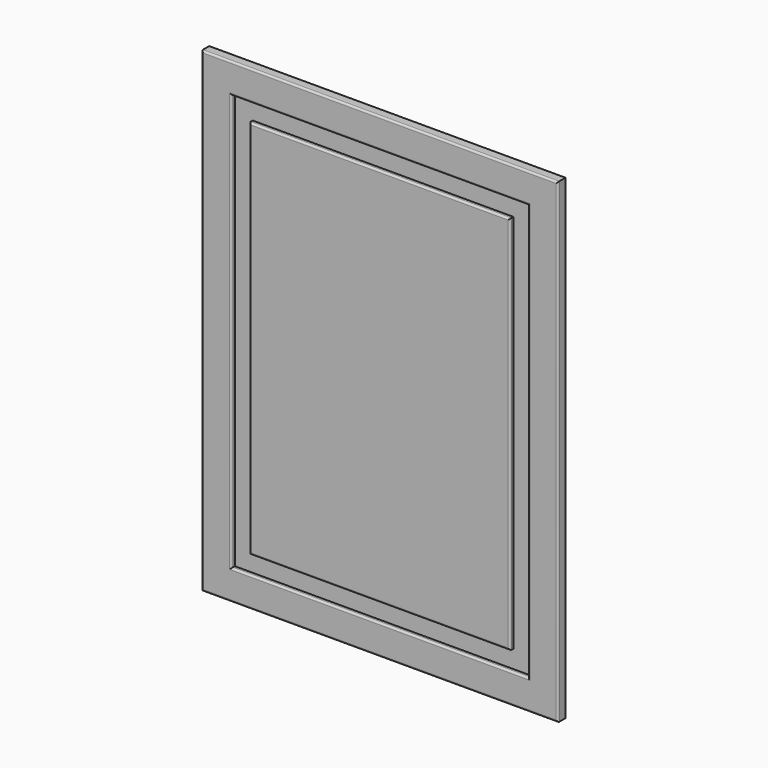
from build123d import *

# Parameters (mm, degrees)
F0_W      = 44.656470418
F0_H      = 33.8078811765
F1_DEPTH  = 16
F2_DEPTH  = 796
F3_DEPTH  = 196
F4_W      = 68.9578056335
F4_H      = 493.6993122101
F5_DEPTH  = 7
F6_DEPTH  = 9.7
F7_DEPTH  = 99.33
F8_DEPTH  = 99.33
F9_DEPTH  = 17.34
F10_DEPTH = 102.97
F11_W     = 35.2807044983
F11_H     = 492.0964837074
F12_DEPTH = 7
F13_DEPTH = 37.27
F14_DEPTH = 6.58
F15_DEPTH = 106.63
F16_DEPTH = 5.87
F17_DEPTH = 200
F18_DEPTH = 200
F19_DEPTH = 200
F20_DEPTH = 200
F21_DEPTH = 200
F22_DEPTH = 200
F23_R     = 3


with BuildPart() as f1:
    # F0 (on Front) → F1 (new body)
    with BuildSketch(Plane.XZ):
        with Locations((22.328235209, 16.9039405882)):
            Rectangle(F0_W, F0_H)
    extrude(amount=F1_DEPTH)

    # F2 (add): a face of the model
    f2_faces = [f1.faces().sort_by_distance(p)[0] for p in [
        (22.328235209, -8, 0),
    ]]
    extrude(f2_faces, amount=-F2_DEPTH)

    # F3 (add): a face of the model
    f3_faces = [f1.faces().sort_by_distance(p)[0] for p in [
        (0, -8, 398),
    ]]
    extrude(f3_faces, amount=-F3_DEPTH)

    # F4 (on face) → F5 (cut)
    with BuildSketch(Plane.XZ.offset(16)):
        with Locations((94.1769480705, 399.8196721077)):
            Rectangle(F4_W, F4_H)
    extrude(amount=-F5_DEPTH, mode=Mode.SUBTRACT)

    # F6 (cut): a face of the model
    f6_faces = [f1.faces().sort_by_distance(p)[0] for p in [
        (59.6980452538, -12.5, 399.8196721077),
    ]]
    extrude(f6_faces, amount=-F6_DEPTH, mode=Mode.SUBTRACT)

    # F7 (add): a face of the model
    f7_faces = [f1.faces().sort_by_distance(p)[0] for p in [
        (89.3269480705, -12.5, 646.6693282127),
    ]]
    extrude(f7_faces, amount=-F7_DEPTH)

    # F8 (cut): a face of the model
    f8_faces = [f1.faces().sort_by_distance(p)[0] for p in [
        (89.3269480705, -12.5, 646.6693282127),
    ]]
    extrude(f8_faces, amount=-F8_DEPTH, mode=Mode.SUBTRACT)

    # F9 (cut): a face of the model
    f9_faces = [f1.faces().sort_by_distance(p)[0] for p in [
        (128.6558508873, -12.5, 449.4846721077),
    ]]
    extrude(f9_faces, amount=-F9_DEPTH, mode=Mode.SUBTRACT)

    # F10 (cut): a face of the model
    f10_faces = [f1.faces().sort_by_distance(p)[0] for p in [
        (97.9969480705, -12.5, 152.9700160027),
    ]]
    extrude(f10_faces, amount=-F10_DEPTH, mode=Mode.SUBTRACT)

    # F11 (on face) → F12 (join)
    with BuildSketch(Plane.XZ.offset(9)):
        with Locations((91.7714834213, 432.6795041561)):
            Rectangle(F11_W, F11_H)
    extrude(amount=F12_DEPTH)

    # F13 (add): a face of the model
    f13_faces = [f1.faces().sort_by_distance(p)[0] for p in [
        (91.7714834213, -12.5, 678.7277460098),
    ]]
    extrude(f13_faces, amount=F13_DEPTH)

    # F14 (add): a face of the model
    f14_faces = [f1.faces().sort_by_distance(p)[0] for p in [
        (109.4118356705, -12.5, 451.3145041561),
    ]]
    extrude(f14_faces, amount=F14_DEPTH)

    # F15 (add): a face of the model
    f15_faces = [f1.faces().sort_by_distance(p)[0] for p in [
        (95.0614834213, -12.5, 186.6312623024),
    ]]
    extrude(f15_faces, amount=F15_DEPTH)

    # F16 (cut): a face of the model
    f16_faces = [f1.faces().sort_by_distance(p)[0] for p in [
        (74.1311311722, -12.5, 397.9995041561),
    ]]
    extrude(f16_faces, amount=-F16_DEPTH, mode=Mode.SUBTRACT)

    # F17 (add): a face of the model
    f17_faces = [f1.faces().sort_by_distance(p)[0] for p in [
        (196, -8, 398),
    ]]
    extrude(f17_faces, amount=F17_DEPTH)

    # F18 (cut): a face of the model
    f18_faces = [f1.faces().sort_by_distance(p)[0] for p in [
        (145.9958508873, -12.5, 397.9996721077),
    ]]
    extrude(f18_faces, amount=-F18_DEPTH, mode=Mode.SUBTRACT)

    # F19 (add): a face of the model
    f19_faces = [f1.faces().sort_by_distance(p)[0] for p in [
        (115.9918356705, -12.5, 397.9995041561),
    ]]
    extrude(f19_faces, amount=F19_DEPTH)

    # F20 (add): a face of the model
    f20_faces = [f1.faces().sort_by_distance(p)[0] for p in [
        (396, -8, 398),
    ]]
    extrude(f20_faces, amount=F20_DEPTH)

    # F21 (cut): a face of the model
    f21_faces = [f1.faces().sort_by_distance(p)[0] for p in [
        (345.9958508873, -12.5, 397.9996721077),
    ]]
    extrude(f21_faces, amount=-F21_DEPTH, mode=Mode.SUBTRACT)

    # F22 (add): a face of the model
    f22_faces = [f1.faces().sort_by_distance(p)[0] for p in [
        (315.9918356705, -12.5, 397.9995041561),
    ]]
    extrude(f22_faces, amount=F22_DEPTH)

    # F23
    f23_edges = [f1.edges().sort_by_distance(p)[0] for p in [
        (297.996483, -16, 715.997746),
        (80.001131, -16, 397.999504),
        (297.996483, -16, 80.001262),
        (515.991836, -16, 397.999504),
        (0, -16, 398),
        (298, -16, 0),
        (596, -16, 398),
        (298, -16, 796),
        (49.998045, -16, 397.999672),
        (297.996948, -16, 745.999328),
        (545.995851, -16, 397.999672),
        (297.996948, -16, 50.000016),
    ]]
    fillet(f23_edges, radius=F23_R)


solid = f1.part
